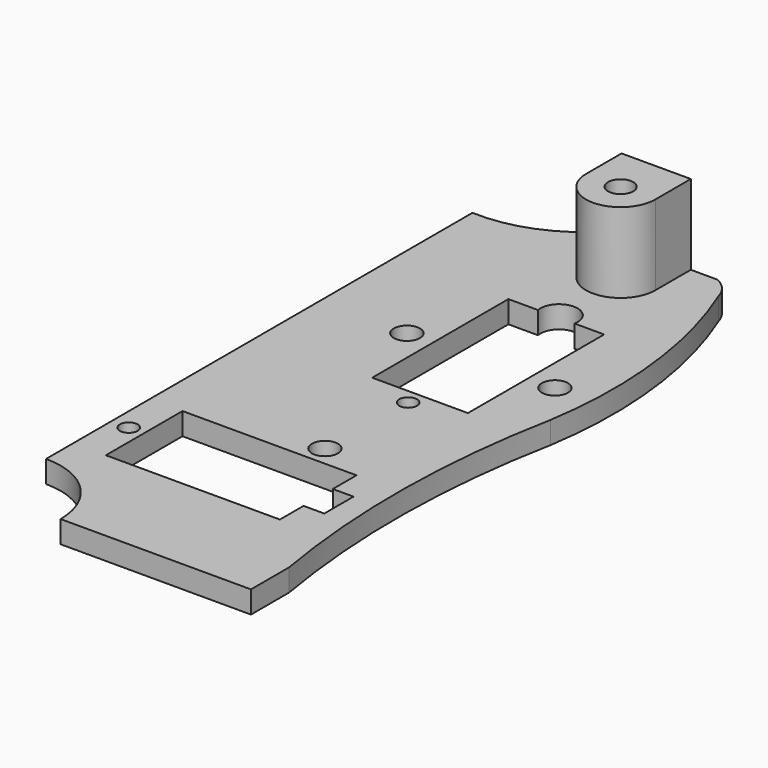
from build123d import *

# Parameters (mm, degrees)
SKETCH033_R        = 1.2
SKETCH033_R_2      = 1.764044
PAD020_DEPTH       = 3
PAD029_DEPTH       = 10.8
SKETCH046_R        = 1.7
POCKET003022_DEPTH = 20


with BuildPart() as part:
    # Sketch033 → Pad020 (new body)
    with BuildSketch(Plane.XY):
        with BuildLine():
            Line((35.5, 0), (35.5, 6.415183))
            ThreePointArc((35.988725, 49.947313), (33.757449, 28.203554), (35.5, 6.415183))
            ThreePointArc((35.988725, 49.947313), (36.349691, 66.784913), (32.171358, 83.099833))
            ThreePointArc((32.171358, 83.099833), (31.269586, 84.821896), (29.723476, 86.000133))
            Line((12.328447, 86.000133), (29.723476, 86.000133))
            ThreePointArc((0, 81.7771), (6.566085, 82.715448), (12.328447, 86.000133))
            Line((0, 81.7771), (0, 9.7771))
            ThreePointArc((9.7771, 0), (6.913454, 6.913454), (0, 9.7771))
            Line((35.5, 0), (9.7771, 0))
        make_face()
        with Locations((2.350144, 20.802189)):
            Circle(SKETCH033_R, mode=Mode.SUBTRACT)
        with Locations((21.7765, 43.6923)):
            Circle(SKETCH033_R, mode=Mode.SUBTRACT)
        with Locations((11.788759, 55.9729)):
            Circle(SKETCH033_R_2, mode=Mode.SUBTRACT)
        with Locations((31.788759, 55.9729)):
            Circle(SKETCH033_R_2, mode=Mode.SUBTRACT)
        with Locations((21.493771, 30)):
            Circle(SKETCH033_R_2, mode=Mode.SUBTRACT)
        Polygon((27.914344, 27.302489), (4.407844, 27.302489), (4.407844, 14.365089), (27.914344, 14.365089), (27.914344, 18.365089), (30.714344, 18.365089), (30.714344, 23.302489), (27.914344, 23.302489), align=None, mode=Mode.SUBTRACT)
        with BuildLine():
            Line((15.2762, 68.75), (15.2762, 45.75))
            Line((15.2762, 45.75), (28.2136, 45.75))
            Line((28.2136, 45.75), (28.2136, 68.75))
            Line((24.2136, 68.75), (28.2136, 68.75))
            ThreePointArc((24.2136, 68.75), (21.7449, 71.728653), (19.2762, 68.75))
            Line((15.2762, 68.75), (19.2762, 68.75))
        make_face(mode=Mode.SUBTRACT)
    extrude(amount=PAD020_DEPTH)

    # Sketch045 → Pad029 (new body)
    with BuildSketch(Plane.XY.offset(3)):
        with BuildLine():
            Line((16.768312, 79.999998), (16.768312, 86))
            Line((16.768312, 86), (26.122612, 86))
            Line((26.122612, 79.999999), (26.122612, 86))
            ThreePointArc((16.768312, 79.999998), (21.445462, 75.32285), (26.122612, 79.999999))
        make_face()
    extrude(amount=PAD029_DEPTH)

    # Sketch046 → Pocket003022 (cut)
    with BuildSketch(Plane.XY.offset(13.8)):
        with Locations((21.445462, 80)):
            Circle(SKETCH046_R)
    extrude(amount=-POCKET003022_DEPTH, mode=Mode.SUBTRACT)


solid = part.part
